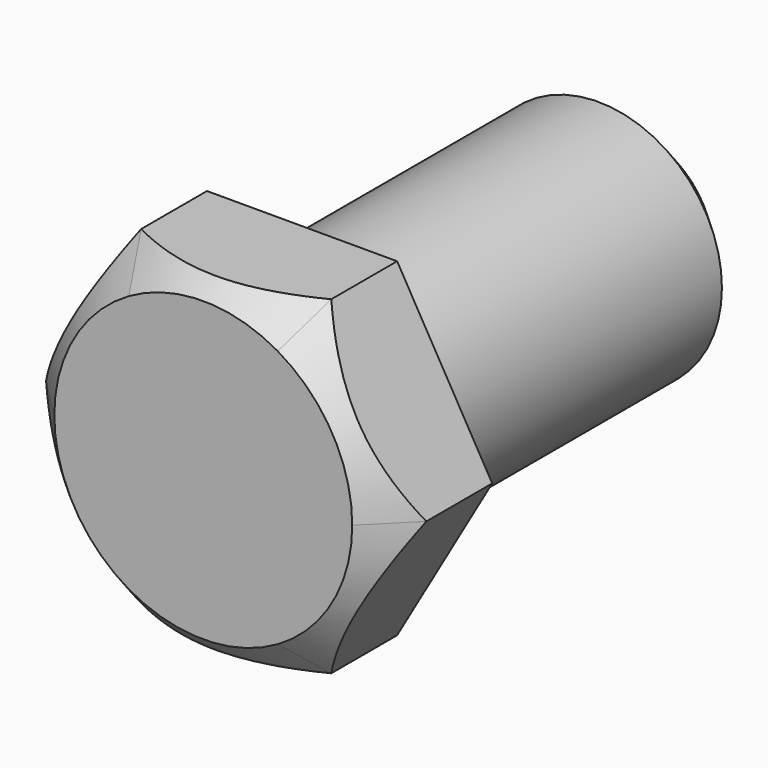
from build123d import *

# Parameters (mm, degrees)
F0_R     = 3
F1_DEPTH = 3
F2_SIZE  = 1
F3_DEPTH = 25
F4_DEPTH = 10
F5_SIZE  = 1


with BuildPart() as f1:
    # F0 (on Front) → F1 (new body)
    with BuildSketch(Plane.XZ):
        with BuildLine():
            ThreePointArc((2.3094010768, 4), (0, 4.6188021535), (-2.3094010768, 4))
            Line((-2.3094010768, 4), (2.3094010768, 4))
        make_face()
        Polygon((2.3094010768, 4), (-2.3094010768, 4), (-4.6188021535, 0), (-2.3094010768, -4), (2.3094010768, -4), (4.6188021535, 0), align=None)
        Circle(F0_R, mode=Mode.SUBTRACT)
        with BuildLine():
            Line((-4.6188021535, 0), (-2.3094010768, 4))
            ThreePointArc((-2.3094010768, 4), (-4, 2.3094010768), (-4.6188021535, 0))
        make_face()
        with BuildLine():
            ThreePointArc((4.6188021535, 0), (4, 2.3094010768), (2.3094010768, 4))
            Line((2.3094010768, 4), (4.6188021535, 0))
        make_face()
        with BuildLine():
            Line((-2.3094010768, -4), (-4.6188021535, 0))
            ThreePointArc((-4.6188021535, 0), (-4, -2.3094010768), (-2.3094010768, -4))
        make_face()
        with BuildLine():
            ThreePointArc((2.3094010768, -4), (4, -2.3094010768), (4.6188021535, 0))
            Line((4.6188021535, 0), (2.3094010768, -4))
        make_face()
        with BuildLine():
            Line((2.3094010768, -4), (-2.3094010768, -4))
            ThreePointArc((-2.3094010768, -4), (0, -4.6188021535), (2.3094010768, -4))
        make_face()
        Circle(F0_R)
    extrude(amount=F1_DEPTH)

    # F2
    f2_edges = [f1.edges().sort_by_distance(p)[0] for p in [
        (2.309401, -3, 4),
    ]]
    chamfer(f2_edges, length=F2_SIZE)

    # F0 (on Front) → F3 (intersect)
    with BuildSketch(Plane.XZ):
        Polygon((2.3094010768, 4), (-2.3094010768, 4), (-4.6188021535, 0), (-2.3094010768, -4), (2.3094010768, -4), (4.6188021535, 0), align=None)
        Circle(F0_R, mode=Mode.SUBTRACT)
        Circle(F0_R)
    extrude(amount=F3_DEPTH, mode=Mode.INTERSECT)

    # F0 (on Front) → F4 (join)
    with BuildSketch(Plane.XZ):
        Circle(F0_R)
    extrude(amount=-F4_DEPTH)

    # F5
    f5_edges = [f1.edges().sort_by_distance(p)[0] for p in [
        (-3, 10, 0),
    ]]
    chamfer(f5_edges, length=F5_SIZE)


solid = f1.part
